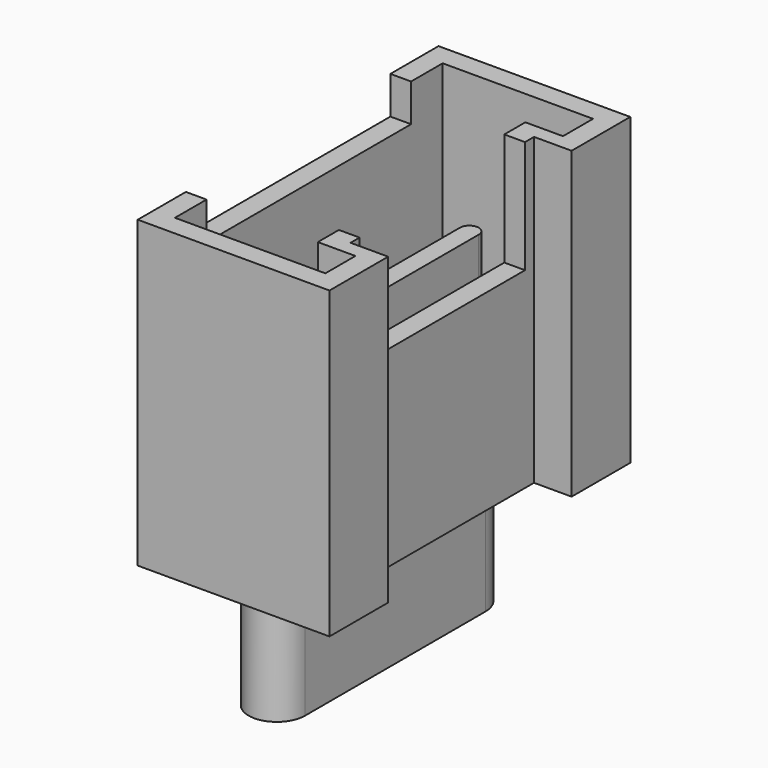
from build123d import *

# Parameters (mm, degrees)
PAD010_DEPTH            = 8.1
POCKET007_DEPTH         = 7
SKETCH024_W             = 6.8
SKETCH024_H             = 5
POCKET009_DEPTH         = 1
SKETCH018_W             = 5.5
SKETCH018_H             = 3
POCKET010_DEPTH         = 3
PAD013_DEPTH            = 4
PAD011_DEPTH            = 3.4
BODY014_PLACEMENT_ANGLE = 90


with BuildPart() as part:
    # Sketch022 → Pad010 (new body)
    with BuildSketch(Plane.XY):
        Polygon((-5, 0), (-3.05, 0), (-3.05, 1), (3.05, 1), (3.05, 0), (5, 0), (5, 5.1), (-5, 5.1), align=None)
    extrude(amount=PAD010_DEPTH)

    # Sketch021 (on Face10 of Pad010) → Pocket007 (cut)
    with BuildSketch(Plane.XY.offset(8.1)):
        Polygon((-4.45, 0.55), (-3.45, 0.55), (-3.45, 1.55), (3.45, 1.55), (3.45, 0.55), (4.45, 0.55), (4.45, 4.55), (-4.45, 4.55), align=None)
    extrude(amount=-POCKET007_DEPTH, mode=Mode.SUBTRACT)

    # Sketch024 (on Face5 of Pocket007) → Pocket009 (cut)
    with BuildSketch(Plane.XY.offset(8.1)):
        with Locations((0, 5.5)):
            Rectangle(SKETCH024_W, SKETCH024_H)
    extrude(amount=-POCKET009_DEPTH, mode=Mode.SUBTRACT)

    # Sketch018 (on Face5 of Pocket009) → Pocket010 (cut)
    with BuildSketch(Plane.XY.offset(8.1)):
        with Locations((0, 1.5)):
            Rectangle(SKETCH018_W, SKETCH018_H)
    extrude(amount=-POCKET010_DEPTH, mode=Mode.SUBTRACT)

    # Sketch023 (on Face26 of Pocket010) → Pad013 (join)
    with BuildSketch(Plane.XY.offset(1.1)):
        with BuildLine():
            ThreePointArc((-3.4, 3.25), (-3.65, 3), (-3.4, 2.75))
            Line((-3.4, 2.75), (3.4, 2.75))
            ThreePointArc((3.4, 2.75), (3.65, 3), (3.4, 3.25))
            Line((-3.4, 3.25), (3.4, 3.25))
        make_face()
    extrude(amount=PAD013_DEPTH)

    # Sketch019 → Pad011 (join)
    with BuildSketch(Plane.XY):
        with BuildLine():
            ThreePointArc((-3, 3.75), (-3.75, 3), (-3, 2.25))
            Line((-3, 2.25), (3, 2.25))
            ThreePointArc((3, 2.25), (3.75, 3), (3, 3.75))
            Line((-3, 3.75), (3, 3.75))
        make_face()
    extrude(amount=-PAD011_DEPTH)


with BuildPart() as part_1:
    # Body014 placement: moved
    add(part.part.moved(Location((-13.8, 0, 1.6))).rotate(Axis((-13.8, 0, 1.6), (0, 0, 1)), BODY014_PLACEMENT_ANGLE))


with BuildPart() as part_2:
    # Clone008 placement: moved
    add(part_1.part.moved(Location((-0.2, 0, 0))))


with BuildPart() as part_3:
    # Body018 placement: moved
    add(part_2.part.moved(Location((31.2, 0, 0))))


solid = part_3.part
